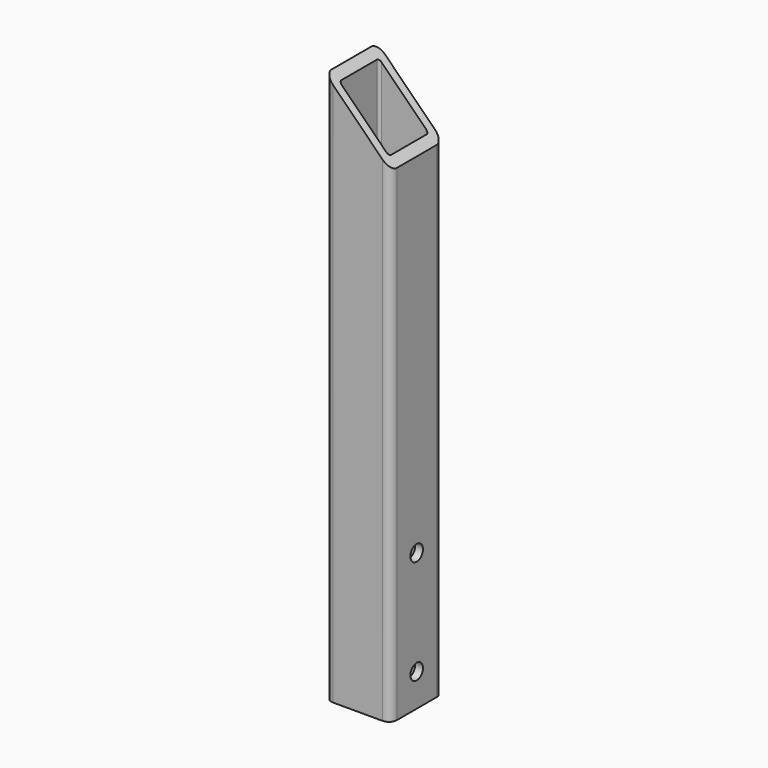
from build123d import *

# Parameters (mm, degrees)
F0_W     = 25
F0_H     = 25
F0_W_2   = 19
F0_H_2   = 19
F1_DEPTH = 211
F2_R     = 1
F3_R     = 3
F5_DEPTH = 25.001
F7_D     = 6


with BuildPart() as f1:
    # F0 (on Top) → F1 (new body)
    with BuildSketch(Plane.XY):
        Rectangle(F0_W, F0_H)
        Rectangle(F0_W_2, F0_H_2, mode=Mode.SUBTRACT)
    extrude(amount=F1_DEPTH)

    # F2
    f2_edges = [f1.edges().sort_by_distance(p)[0] for p in [
        (-9.5, -9.5, 105.5),
        (-9.5, 9.5, 105.5),
        (9.5, 9.5, 105.5),
        (9.5, -9.5, 105.5),
    ]]
    fillet(f2_edges, radius=F2_R)

    # F3
    f3_edges = [f1.edges().sort_by_distance(p)[0] for p in [
        (-12.5, 12.5, 105.5),
        (-12.5, -12.5, 105.5),
        (12.5, 12.5, 105.5),
        (12.5, -12.5, 105.5),
    ]]
    fillet(f3_edges, radius=F3_R)

    # F4 (on face) → F5 (cut, through all)
    with BuildSketch(Plane.XZ.offset(12.5)):
        Polygon((-9.5, 211), (-9.5, 208), (9.5, 189), (9.5, 211), align=None)
        Polygon((-9.5, 211), (-12.5, 211), (-9.5, 208), align=None)
        Polygon((9.5, 211), (9.5, 189), (12.5, 186), (12.5, 211), align=None)
    extrude(amount=-F5_DEPTH, mode=Mode.SUBTRACT)

    # F7 (through all)
    with Locations(Plane(origin=(-12.5, 0, 0), x_dir=(0, -1, 0), z_dir=(-1, 0, 0))):
        with Locations((0, 12.5), (0, 52.5)):
            Hole(F7_D / 2)


solid = f1.part
